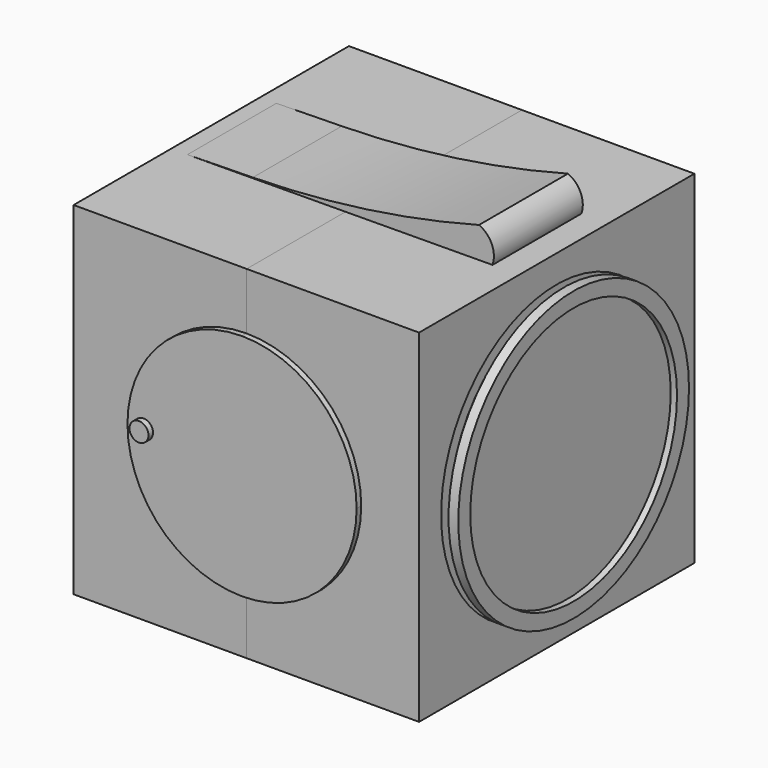
from build123d import *

# Parameters (mm, degrees)
F1_W      = 152.577213943
F1_H      = 151.9569754601
F2_DEPTH  = 76.454
F0_R      = 63.9339901924
F0_R_2    = 57.603630209
F0_R_3    = 8.3357283428
F0_R_4    = 5.5518623653
F0_R_5    = 3.2892816449
F3_DEPTH  = 84.074
F4_DEPTH  = 83.82
F5_DEPTH  = 79.756
F6_DEPTH  = 75.438
F7_DEPTH  = 76.708
F8_R      = 3.7795068471
F9_DEPTH  = 2.54
F10_R     = 4.214493327
F11_DEPTH = 2.54
F13_DEPTH = 103.124
F14_DEPTH = 53.848
F15_R     = 12.7
F16_DEPTH = 6.35
F18_DEPTH = 2.54
F19_R     = 57.2977991131
F20_DEPTH = 2.794


with BuildPart() as f2:
    # F1 (on Right) → F2 (new body)
    with BuildSketch(Plane.YZ):
        with Locations((0.1550577581, 0.1550614834)):
            Rectangle(F1_W, F1_H)
    extrude(amount=F2_DEPTH)

    # F0 (on Right) → F3 (join)
    with BuildSketch(Plane.YZ):
        Circle(F0_R)
        Circle(F0_R_2, mode=Mode.SUBTRACT)
        Circle(F0_R_2)
        Circle(F0_R_3, mode=Mode.SUBTRACT)
        Circle(F0_R_3)
        Circle(F0_R_4, mode=Mode.SUBTRACT)
        Circle(F0_R_4)
        Circle(F0_R_5, mode=Mode.SUBTRACT)
        Circle(F0_R_5)
    extrude(amount=F3_DEPTH)

    # F0 (on Right) → F4 (join)
    with BuildSketch(Plane.YZ):
        Circle(F0_R_4)
        Circle(F0_R_5, mode=Mode.SUBTRACT)
        Circle(F0_R_5)
    extrude(amount=F4_DEPTH)

    # F0 (on Right) → F5 (cut)
    with BuildSketch(Plane.YZ):
        Circle(F0_R)
        Circle(F0_R_2, mode=Mode.SUBTRACT)
    extrude(amount=F5_DEPTH, mode=Mode.SUBTRACT)

    # F19 (on face) → F20 (cut)
    with BuildSketch(Plane.YZ.offset(84.074)):
        Circle(F19_R)
    extrude(amount=-F20_DEPTH, mode=Mode.SUBTRACT)


with BuildPart() as f6:
    # F0 (on Right) → F6 (new body)
    with BuildSketch(Plane.YZ):
        Circle(F0_R)
        Circle(F0_R_2, mode=Mode.SUBTRACT)
    extrude(amount=F6_DEPTH)


with BuildPart() as f7:
    # F1 (on Right) → F7 (new body)
    with BuildSketch(Plane.YZ):
        with Locations((0.1550577581, 0.1550614834)):
            Rectangle(F1_W, F1_H)
    extrude(amount=-F7_DEPTH)

    # F17 (on face) → F18 (cut)
    with BuildSketch(Plane(origin=(-76.708, 0, 0), x_dir=(0, -1, 0), z_dir=(-1, 0, 0))):
        with BuildLine():
            add(Edge.make_bspline(
                [(-0.117408068, 64.0303865075), (-69.5502769999, 64.0303865075), (-34.833842534, -31.2513980898), (-0.117408068, -126.5331826871), (34.5990263979, -31.2513980898), (69.3154608638, 64.0303865075), (-0.117408068, 64.0303865075)],
                knots=[0, 0, 0, 2.0943951024, 2.0943951024, 4.1887902048, 4.1887902048, 6.2831853072, 6.2831853072, 6.2831853072], degree=2, weights=[1, 0.5, 1, 0.5, 1, 0.5, 1]))
        make_face()
    extrude(amount=-F18_DEPTH, mode=Mode.SUBTRACT)


with BuildPart() as f9:
    # F8 (on face) → F9 (new body)
    with BuildSketch(Plane.XZ.offset(76.1335492134)):
        with BuildLine():
            Line((0, -50.6449385166), (0, 50.9550614834))
            ThreePointArc((0, 50.9550614834), (-50.8, 0.1550614834), (0, -50.6449385166))
        make_face()
        with Locations((-43.2630628347, 0.1550614834)):
            Circle(F8_R, mode=Mode.SUBTRACT)
        with BuildLine():
            ThreePointArc((0, -50.6449385166), (35.9210244843, -35.7659630009), (50.8, 0.1550614834))
            ThreePointArc((50.8, 0.1550614834), (35.9210244843, 36.0760859677), (0, 50.9550614834))
            Line((0, 50.9550614834), (0, -50.6449385166))
        make_face()
        with Locations((-43.2630628347, 0.1550614834)):
            Circle(F8_R)
    extrude(amount=F9_DEPTH)

    # F10 (on face) → F11 (join)
    with BuildSketch(Plane.XZ.offset(78.6735492134)):
        with Locations((-43.676327914, 0.4132648755)):
            Circle(F10_R)
    extrude(amount=F11_DEPTH)


with BuildPart() as f13:
    # F12 (on face) → F13 (new body)
    with BuildSketch(Plane.XZ.offset(76.1335492134)):
        with BuildLine():
            Line((-69.3183791608, 76.3053011137), (65.9282356501, 77.2363245487))
            ThreePointArc((65.9282356501, 77.2363245487), (65.6323521799, 85.2412227829), (59.9541589618, 90.8913612366))
            ThreePointArc((59.9541589618, 90.8913612366), (10.2450181107, 80.7850982994), (-40.3250381351, 76.809592545))
            Line((-40.3250381351, 76.809592545), (-69.3183791608, 76.3053011137))
        make_face()
    extrude(amount=-F13_DEPTH)

    # F14 (cut): a face of the model
    f14_faces = [f13.faces().sort_by_distance(p)[0] for p in [
        (35.6560596218, -76.1335492134, 81.262708953),
    ]]
    extrude(f14_faces, amount=-F14_DEPTH, mode=Mode.SUBTRACT)


with BuildPart() as f16:
    # F15 (on face) → F16 (new body)
    with BuildSketch(Plane(origin=(0, 0, -75.8234262466), x_dir=(1, 0, 0), z_dir=(0, 0, -1))):
        with Locations((-50.7018305361, 47.4308095872)):
            Circle(F15_R)
    extrude(amount=F16_DEPTH)


with BuildPart() as f16b:
    # F15 (on face) → F16, piece 2 (new body)
    with BuildSketch(Plane(origin=(0, 0, -75.8234262466), x_dir=(1, 0, 0), z_dir=(0, 0, -1))):
        with BuildLine():
            Line((0, -12.8550577581), (0, 12.5449422419))
            ThreePointArc((0, 12.5449422419), (-12.7, -0.1550577581), (0, -12.8550577581))
        make_face()
        with BuildLine():
            ThreePointArc((0, -12.8550577581), (8.9802561211, -9.1353138792), (12.7, -0.1550577581))
            ThreePointArc((12.7, -0.1550577581), (8.9802561211, 8.825198363), (0, 12.5449422419))
            Line((0, 12.5449422419), (0, -12.8550577581))
        make_face()
    extrude(amount=F16_DEPTH)


with BuildPart() as f16c:
    # F15 (on face) → F16, piece 3 (new body)
    with BuildSketch(Plane(origin=(0, 0, -75.8234262466), x_dir=(1, 0, 0), z_dir=(0, 0, -1))):
        with Locations((50.7018305361, 47.4308095872)):
            Circle(F15_R)
    extrude(amount=F16_DEPTH)


with BuildPart() as f16d:
    # F15 (on face) → F16, piece 4 (new body)
    with BuildSketch(Plane(origin=(0, 0, -75.8234262466), x_dir=(1, 0, 0), z_dir=(0, 0, -1))):
        with Locations((50.7018305361, -47.4308095872)):
            Circle(F15_R)
    extrude(amount=F16_DEPTH)


with BuildPart() as f16e:
    # F15 (on face) → F16, piece 5 (new body)
    with BuildSketch(Plane(origin=(0, 0, -75.8234262466), x_dir=(1, 0, 0), z_dir=(0, 0, -1))):
        with Locations((-50.7018305361, -47.4308095872)):
            Circle(F15_R)
    extrude(amount=F16_DEPTH)


solid = Compound([f2.part, f6.part, f7.part, f9.part, f13.part, f16.part, f16b.part, f16c.part, f16d.part, f16e.part])
